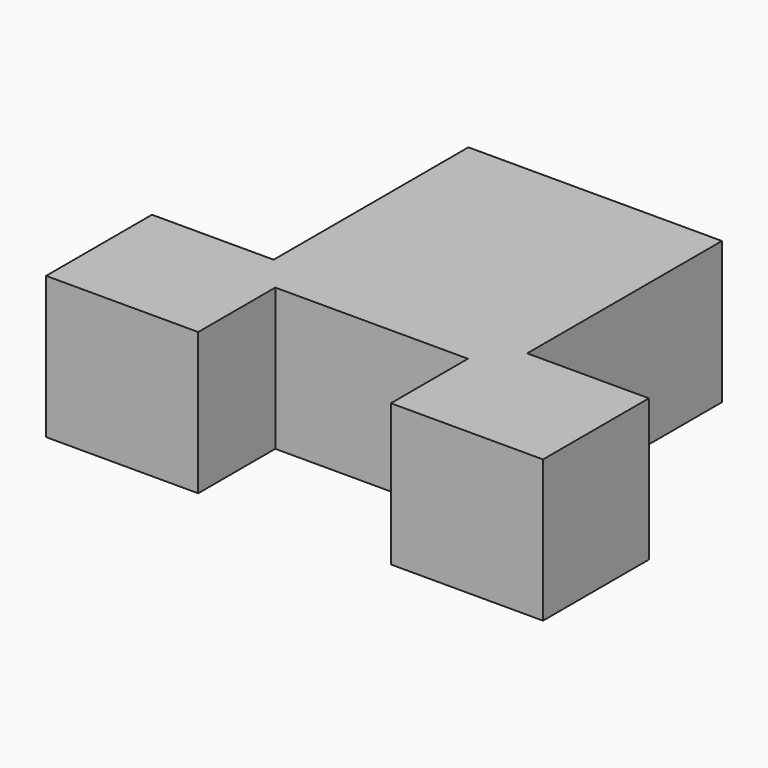
from build123d import *

# Parameters (mm, degrees)
F0_W     = 0.6
F0_H     = 0.71
F1_DEPTH = 2.8


with BuildPart() as f1:
    # F0 (on Top) → F1 (new body)
    with BuildSketch(Plane.XY):
        Polygon((2.5, 5.51), (-2.5, 5.51), (-2.5, 0.71), (-1.9, 0.71), (-1.9, 0), (1.9, 0), (1.9, 0.71), (2.5, 0.71), align=None)
        with Locations((-2.2, 0.355)):
            Rectangle(F0_W, F0_H)
        Polygon((-2.5, 0), (-2.5, 0.71), (-4.9, 0.71), (-4.9, -1.9), (-1.9, -1.9), (-1.9, 0), align=None)
        with Locations((2.2, 0.355)):
            Rectangle(F0_W, F0_H)
        Polygon((4.9, 0.71), (2.5, 0.71), (2.5, 0), (1.9, 0), (1.9, -1.9), (4.9, -1.9), align=None)
    extrude(amount=F1_DEPTH)


solid = f1.part
